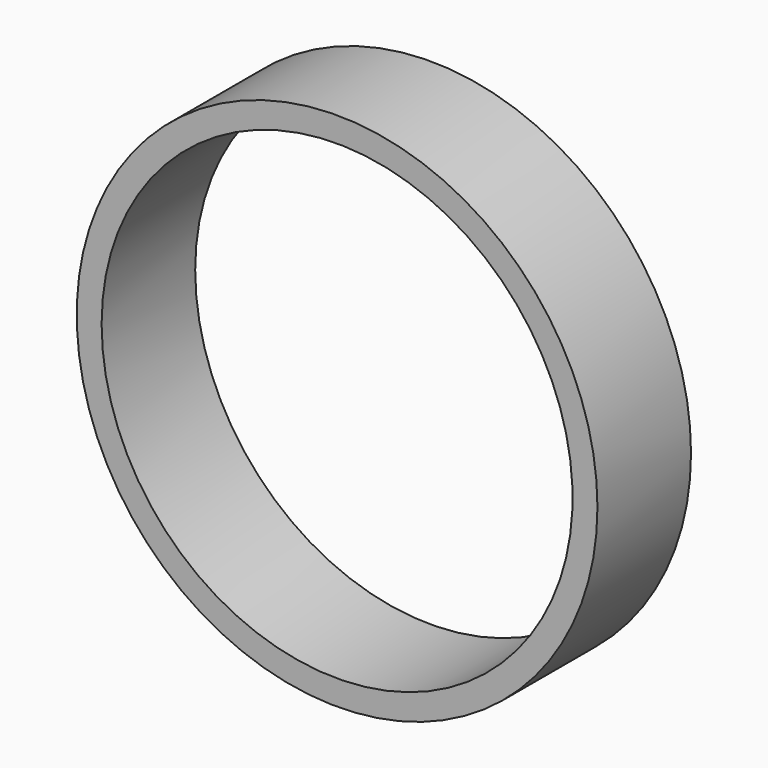
from build123d import *

# Parameters (mm, degrees)
F0_R     = 56.535468
F2_DEPTH = 25.4
F3_R     = 51.131278
F4_DEPTH = 25.4


with BuildPart() as f2:
    # F0 (on Front) → F2 (new body)
    with BuildSketch(Plane.XZ):
        Circle(F0_R)
    extrude(amount=F2_DEPTH)

    # F3 (on face) → F4 (cut)
    with BuildSketch(Plane(origin=(0, 0, 0), x_dir=(-1, 0, 0), z_dir=(0, 1, 0))):
        Circle(F3_R)
        Circle(F3_R)
    extrude(amount=-F4_DEPTH, mode=Mode.SUBTRACT)


solid = f2.part
